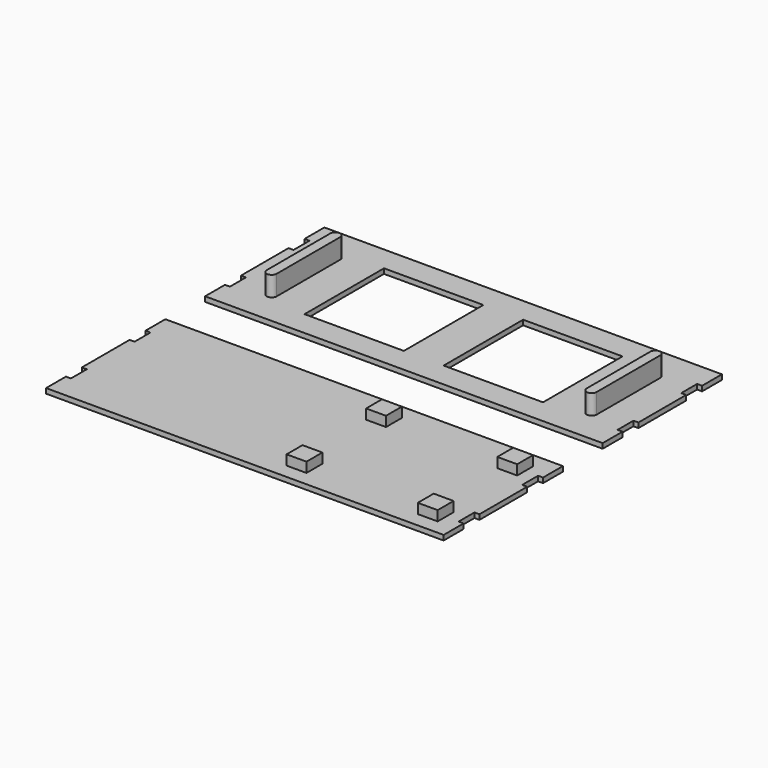
from build123d import *

# Parameters (mm, degrees)
SKETCH_W        = 200
SKETCH_H        = 75
PAD_DEPTH       = 2.5
PAD001_DEPTH    = 10
SKETCH002_W     = 50
SKETCH002_H     = 50
SKETCH002_W_2   = 2.5
SKETCH002_H_2   = 10
POCKET_DEPTH    = 5
SKETCH003_W     = 200
SKETCH003_H     = 75
PAD002_DEPTH    = 2.5
SKETCH004_W     = 2.5
SKETCH004_H     = 10
POCKET001_DEPTH = 2.5
SKETCH005_W     = 10
SKETCH005_H     = 10
PAD003_DEPTH    = 5


with BuildPart() as base_inverted:
    # Sketch (on XY_Plane of Origin) → Pad (new body)
    with BuildSketch(Plane.XY):
        Rectangle(SKETCH_W, SKETCH_H)
    extrude(amount=PAD_DEPTH)

    # Sketch001 (on Face6 of Pad) → Pad001 (join)
    with BuildSketch(Plane.XY.offset(2.5)):
        with BuildLine():
            ThreePointArc((-78, 20), (-80.5, 22.5), (-83, 20))
            Line((-83, 20), (-83, -20))
            ThreePointArc((-83, -20), (-80.5, -22.5), (-78, -20))
            Line((-78, 20), (-78, -20))
        make_face()
        with BuildLine():
            ThreePointArc((83, 20), (80.5, 22.5), (78, 20))
            Line((78, 20), (78, -20))
            ThreePointArc((78, -20), (80.5, -22.5), (83, -20))
            Line((83, 20), (83, -20))
        make_face()
    extrude(amount=PAD001_DEPTH)

    # Sketch002 (on Face5 of Pad001) → Pocket (cut)
    with BuildSketch(Plane.XY.offset(2.5)):
        with Locations((-35, 0)):
            Rectangle(SKETCH002_W, SKETCH002_H)
        with Locations((35, 0)):
            Rectangle(SKETCH002_W, SKETCH002_H)
        with Locations((-98.75, 20)):
            Rectangle(SKETCH002_W_2, SKETCH002_H_2)
        with Locations((-98.75, -20)):
            Rectangle(SKETCH002_W_2, SKETCH002_H_2)
        with Locations((98.75, -20)):
            Rectangle(SKETCH002_W_2, SKETCH002_H_2)
        with Locations((98.75, 20)):
            Rectangle(SKETCH002_W_2, SKETCH002_H_2)
    extrude(amount=-POCKET_DEPTH, mode=Mode.SUBTRACT)


with BuildPart() as upper:
    # Sketch003 (on XY_Plane001 of Origin002) → Pad002 (new body)
    with BuildSketch(Plane.XY):
        with Locations((0, -100)):
            Rectangle(SKETCH003_W, SKETCH003_H)
    extrude(amount=PAD002_DEPTH)

    # Sketch004 (on Face6 of Pad002) → Pocket001 (cut)
    with BuildSketch(Plane.XY.offset(2.5)):
        with Locations((-98.75, -80)):
            Rectangle(SKETCH004_W, SKETCH004_H)
        with Locations((-98.75, -120)):
            Rectangle(SKETCH004_W, SKETCH004_H)
        with Locations((98.75, -120)):
            Rectangle(SKETCH004_W, SKETCH004_H)
        with Locations((98.75, -80)):
            Rectangle(SKETCH004_W, SKETCH004_H)
    extrude(amount=-POCKET001_DEPTH, mode=Mode.SUBTRACT)

    # Sketch005 (on Face4 of Pocket001) → Pad003 (join)
    with BuildSketch(Plane.XY.offset(2.5)):
        with Locations((20, -75)):
            Rectangle(SKETCH005_W, SKETCH005_H)
        with Locations((20, -125)):
            Rectangle(SKETCH005_W, SKETCH005_H)
        with Locations((86, -75)):
            Rectangle(SKETCH005_W, SKETCH005_H)
        with Locations((86, -125)):
            Rectangle(SKETCH005_W, SKETCH005_H)
    extrude(amount=PAD003_DEPTH)


solid = Compound([base_inverted.part, upper.part])
